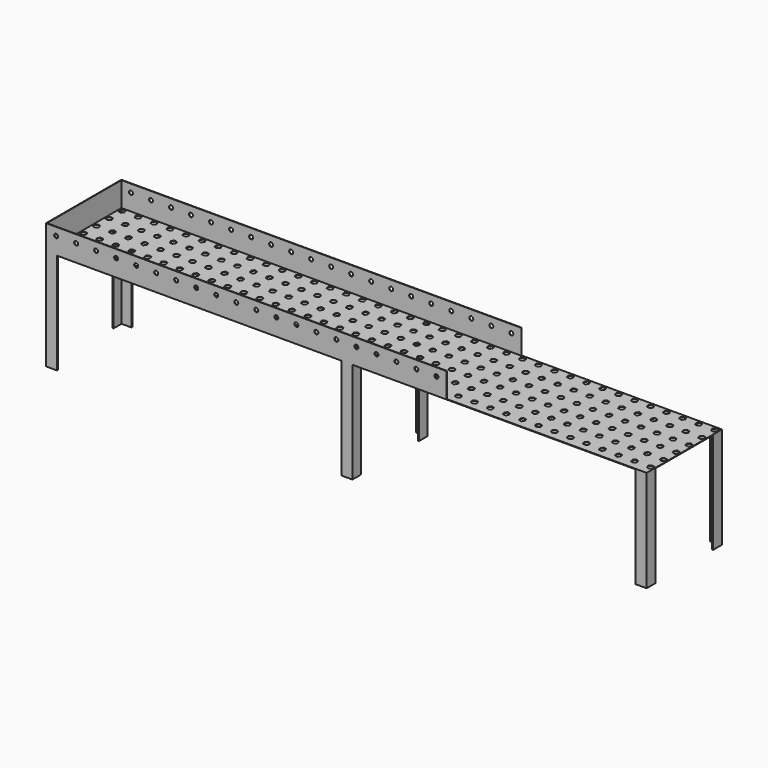
from build123d import *

# Parameters (mm, degrees)
F0_W      = 3000
F0_H      = 470
F1_DEPTH  = 125
F2_T      = -2.54
F3_R      = 10
F4_DEPTH  = 470
F6_DEPTH  = 505
F7_W      = 470
F7_H      = 122.46
F8_DEPTH  = 1000
F10_DEPTH = 2.54


with BuildPart() as f1:
    # F0 (on Top) → F1 (new body)
    with BuildSketch(Plane.XY):
        Rectangle(F0_W, F0_H)
    extrude(amount=F1_DEPTH)

    # F2
    f2_openings = [f1.faces().sort_by_distance(p)[0] for p in [
        (0, 0, 125),
    ]]
    offset(amount=F2_T, openings=f2_openings)

    # F3 (on face) → F4 (cut, through all)
    with BuildSketch(Plane.XZ.offset(235)):
        with Locations((-1450, 85)):
            Circle(F3_R)
        with Locations((-1350, 85)):
            Circle(F3_R)
        with Locations((-1250, 85)):
            Circle(F3_R)
        with Locations((-1150, 85)):
            Circle(F3_R)
        with Locations((-1050, 85)):
            Circle(F3_R)
        with Locations((-950, 85)):
            Circle(F3_R)
        with Locations((-850, 85)):
            Circle(F3_R)
        with Locations((-750, 85)):
            Circle(F3_R)
        with Locations((-650, 85)):
            Circle(F3_R)
        with Locations((-550, 85)):
            Circle(F3_R)
        with Locations((-450, 85)):
            Circle(F3_R)
        with Locations((-350, 85)):
            Circle(F3_R)
        with Locations((-250, 85)):
            Circle(F3_R)
        with Locations((-150, 85)):
            Circle(F3_R)
        with Locations((-50, 85)):
            Circle(F3_R)
        with Locations((50, 85)):
            Circle(F3_R)
        with Locations((150, 85)):
            Circle(F3_R)
        with Locations((250, 85)):
            Circle(F3_R)
        with Locations((350, 85)):
            Circle(F3_R)
        with Locations((450, 85)):
            Circle(F3_R)
    extrude(amount=-F4_DEPTH, mode=Mode.SUBTRACT)

    # F5 (on face) → F6 (join)
    with BuildSketch(Plane(origin=(0, 0, 0), x_dir=(1, 0, 0), z_dir=(0, 0, -1))):
        Polygon((-1445, 235), (-1500, 235), (-1500, 180), (-1495, 180), (-1495, 230), (-1445, 230), align=None)
        Polygon((-1500, -180), (-1500, -235), (-1445, -235), (-1445, -230), (-1495, -230), (-1495, -180), align=None)
        Polygon((30, 235), (-25, 235), (-25, 230), (25, 230), (25, 180), (30, 180), align=None)
        Polygon((-25, -230), (-25, -235), (30, -235), (30, -180), (25, -180), (25, -230), align=None)
        Polygon((1500, 235), (1445, 235), (1445, 230), (1495, 230), (1495, 180), (1500, 180), align=None)
        Polygon((1500, -235), (1500, -180), (1495, -180), (1495, -230), (1445, -230), (1445, -235), align=None)
    extrude(amount=F6_DEPTH)

    # F7 (on face) → F8 (cut)
    with BuildSketch(Plane.YZ.offset(1500)):
        with Locations((0, 63.77)):
            Rectangle(F7_W, F7_H)
    extrude(amount=-F8_DEPTH, mode=Mode.SUBTRACT)

    # F9 (on face) → F10 (cut, through all)
    with BuildSketch(Plane.XY.offset(2.54)):
        Polygon((-1474.205812, 199.246037), (-1464.427392, 210.174841), (-1469.002804, 224.107602), (-1483.356635, 227.11156), (-1493.135055, 216.182756), (-1488.559643, 202.249995), align=None)
        Polygon((-1488.559643, 122.249995), (-1474.205812, 119.246037), (-1464.427392, 130.174841), (-1469.002804, 144.107602), (-1483.356635, 147.11156), (-1493.135055, 136.182756), align=None)
        Polygon((-1488.559643, 42.249995), (-1474.205812, 39.246037), (-1464.427392, 50.174841), (-1469.002804, 64.107602), (-1483.356635, 67.11156), (-1493.135055, 56.182756), align=None)
        Polygon((-1488.559643, -37.750005), (-1474.205812, -40.753963), (-1464.427392, -29.825159), (-1469.002804, -15.892398), (-1483.356635, -12.88844), (-1493.135055, -23.817244), align=None)
        Polygon((-1488.559643, -117.750005), (-1474.205812, -120.753963), (-1464.427392, -109.825159), (-1469.002804, -95.892398), (-1483.356635, -92.88844), (-1493.135055, -103.817244), align=None)
        Polygon((-1488.559643, -197.750005), (-1474.205812, -200.753963), (-1464.427392, -189.825159), (-1469.002804, -175.892398), (-1483.356635, -172.88844), (-1493.135055, -183.817244), align=None)
        Polygon((-1408.559643, 202.249995), (-1394.205812, 199.246037), (-1384.427392, 210.174841), (-1389.002804, 224.107602), (-1403.356635, 227.11156), (-1413.135055, 216.182756), align=None)
        Polygon((-1408.559643, 122.249995), (-1394.205812, 119.246037), (-1384.427392, 130.174841), (-1389.002804, 144.107602), (-1403.356635, 147.11156), (-1413.135055, 136.182756), align=None)
        Polygon((-1408.559643, 42.249995), (-1394.205812, 39.246037), (-1384.427392, 50.174841), (-1389.002804, 64.107602), (-1403.356635, 67.11156), (-1413.135055, 56.182756), align=None)
        Polygon((-1408.559643, -37.750005), (-1394.205812, -40.753963), (-1384.427392, -29.825159), (-1389.002804, -15.892398), (-1403.356635, -12.88844), (-1413.135055, -23.817244), align=None)
        Polygon((-1408.559643, -117.750005), (-1394.205812, -120.753963), (-1384.427392, -109.825159), (-1389.002804, -95.892398), (-1403.356635, -92.88844), (-1413.135055, -103.817244), align=None)
        Polygon((-1408.559643, -197.750005), (-1394.205812, -200.753963), (-1384.427392, -189.825159), (-1389.002804, -175.892398), (-1403.356635, -172.88844), (-1413.135055, -183.817244), align=None)
        Polygon((-1328.559643, 202.249995), (-1314.205812, 199.246037), (-1304.427392, 210.174841), (-1309.002804, 224.107602), (-1323.356635, 227.11156), (-1333.135055, 216.182756), align=None)
        Polygon((-1328.559643, 122.249995), (-1314.205812, 119.246037), (-1304.427392, 130.174841), (-1309.002804, 144.107602), (-1323.356635, 147.11156), (-1333.135055, 136.182756), align=None)
        Polygon((-1328.559643, 42.249995), (-1314.205812, 39.246037), (-1304.427392, 50.174841), (-1309.002804, 64.107602), (-1323.356635, 67.11156), (-1333.135055, 56.182756), align=None)
        Polygon((-1328.559643, -37.750005), (-1314.205812, -40.753963), (-1304.427392, -29.825159), (-1309.002804, -15.892398), (-1323.356635, -12.88844), (-1333.135055, -23.817244), align=None)
        Polygon((-1328.559643, -117.750005), (-1314.205812, -120.753963), (-1304.427392, -109.825159), (-1309.002804, -95.892398), (-1323.356635, -92.88844), (-1333.135055, -103.817244), align=None)
        Polygon((-1328.559643, -197.750005), (-1314.205812, -200.753963), (-1304.427392, -189.825159), (-1309.002804, -175.892398), (-1323.356635, -172.88844), (-1333.135055, -183.817244), align=None)
        Polygon((-1248.559643, 202.249995), (-1234.205812, 199.246037), (-1224.427392, 210.174841), (-1229.002804, 224.107602), (-1243.356635, 227.11156), (-1253.135055, 216.182756), align=None)
        Polygon((-1248.559643, 122.249995), (-1234.205812, 119.246037), (-1224.427392, 130.174841), (-1229.002804, 144.107602), (-1243.356635, 147.11156), (-1253.135055, 136.182756), align=None)
        Polygon((-1248.559643, 42.249995), (-1234.205812, 39.246037), (-1224.427392, 50.174841), (-1229.002804, 64.107602), (-1243.356635, 67.11156), (-1253.135055, 56.182756), align=None)
        Polygon((-1248.559643, -37.750005), (-1234.205812, -40.753963), (-1224.427392, -29.825159), (-1229.002804, -15.892398), (-1243.356635, -12.88844), (-1253.135055, -23.817244), align=None)
        Polygon((-1248.559643, -117.750005), (-1234.205812, -120.753963), (-1224.427392, -109.825159), (-1229.002804, -95.892398), (-1243.356635, -92.88844), (-1253.135055, -103.817244), align=None)
        Polygon((-1248.559643, -197.750005), (-1234.205812, -200.753963), (-1224.427392, -189.825159), (-1229.002804, -175.892398), (-1243.356635, -172.88844), (-1253.135055, -183.817244), align=None)
        Polygon((-1168.559643, 202.249995), (-1154.205812, 199.246037), (-1144.427392, 210.174841), (-1149.002804, 224.107602), (-1163.356635, 227.11156), (-1173.135055, 216.182756), align=None)
        Polygon((-1168.559643, 122.249995), (-1154.205812, 119.246037), (-1144.427392, 130.174841), (-1149.002804, 144.107602), (-1163.356635, 147.11156), (-1173.135055, 136.182756), align=None)
        Polygon((-1168.559643, 42.249995), (-1154.205812, 39.246037), (-1144.427392, 50.174841), (-1149.002804, 64.107602), (-1163.356635, 67.11156), (-1173.135055, 56.182756), align=None)
        Polygon((-1168.559643, -37.750005), (-1154.205812, -40.753963), (-1144.427392, -29.825159), (-1149.002804, -15.892398), (-1163.356635, -12.88844), (-1173.135055, -23.817244), align=None)
        Polygon((-1168.559643, -117.750005), (-1154.205812, -120.753963), (-1144.427392, -109.825159), (-1149.002804, -95.892398), (-1163.356635, -92.88844), (-1173.135055, -103.817244), align=None)
        Polygon((-1168.559643, -197.750005), (-1154.205812, -200.753963), (-1144.427392, -189.825159), (-1149.002804, -175.892398), (-1163.356635, -172.88844), (-1173.135055, -183.817244), align=None)
        Polygon((-1088.559643, 202.249995), (-1074.205812, 199.246037), (-1064.427392, 210.174841), (-1069.002804, 224.107602), (-1083.356635, 227.11156), (-1093.135055, 216.182756), align=None)
        Polygon((-1088.559643, 122.249995), (-1074.205812, 119.246037), (-1064.427392, 130.174841), (-1069.002804, 144.107602), (-1083.356635, 147.11156), (-1093.135055, 136.182756), align=None)
        Polygon((-1088.559643, 42.249995), (-1074.205812, 39.246037), (-1064.427392, 50.174841), (-1069.002804, 64.107602), (-1083.356635, 67.11156), (-1093.135055, 56.182756), align=None)
        Polygon((-1088.559643, -37.750005), (-1074.205812, -40.753963), (-1064.427392, -29.825159), (-1069.002804, -15.892398), (-1083.356635, -12.88844), (-1093.135055, -23.817244), align=None)
        Polygon((-1088.559643, -117.750005), (-1074.205812, -120.753963), (-1064.427392, -109.825159), (-1069.002804, -95.892398), (-1083.356635, -92.88844), (-1093.135055, -103.817244), align=None)
        Polygon((-1088.559643, -197.750005), (-1074.205812, -200.753963), (-1064.427392, -189.825159), (-1069.002804, -175.892398), (-1083.356635, -172.88844), (-1093.135055, -183.817244), align=None)
        Polygon((-1008.559643, 202.249995), (-994.205812, 199.246037), (-984.427392, 210.174841), (-989.002804, 224.107602), (-1003.356635, 227.11156), (-1013.135055, 216.182756), align=None)
        Polygon((-1008.559643, 122.249995), (-994.205812, 119.246037), (-984.427392, 130.174841), (-989.002804, 144.107602), (-1003.356635, 147.11156), (-1013.135055, 136.182756), align=None)
        Polygon((-1008.559643, 42.249995), (-994.205812, 39.246037), (-984.427392, 50.174841), (-989.002804, 64.107602), (-1003.356635, 67.11156), (-1013.135055, 56.182756), align=None)
        Polygon((-1008.559643, -37.750005), (-994.205812, -40.753963), (-984.427392, -29.825159), (-989.002804, -15.892398), (-1003.356635, -12.88844), (-1013.135055, -23.817244), align=None)
        Polygon((-1008.559643, -117.750005), (-994.205812, -120.753963), (-984.427392, -109.825159), (-989.002804, -95.892398), (-1003.356635, -92.88844), (-1013.135055, -103.817244), align=None)
        Polygon((-1008.559643, -197.750005), (-994.205812, -200.753963), (-984.427392, -189.825159), (-989.002804, -175.892398), (-1003.356635, -172.88844), (-1013.135055, -183.817244), align=None)
        Polygon((-928.559643, 202.249995), (-914.205812, 199.246037), (-904.427392, 210.174841), (-909.002804, 224.107602), (-923.356635, 227.11156), (-933.135055, 216.182756), align=None)
        Polygon((-928.559643, 122.249995), (-914.205812, 119.246037), (-904.427392, 130.174841), (-909.002804, 144.107602), (-923.356635, 147.11156), (-933.135055, 136.182756), align=None)
        Polygon((-928.559643, 42.249995), (-914.205812, 39.246037), (-904.427392, 50.174841), (-909.002804, 64.107602), (-923.356635, 67.11156), (-933.135055, 56.182756), align=None)
        Polygon((-928.559643, -37.750005), (-914.205812, -40.753963), (-904.427392, -29.825159), (-909.002804, -15.892398), (-923.356635, -12.88844), (-933.135055, -23.817244), align=None)
        Polygon((-928.559643, -117.750005), (-914.205812, -120.753963), (-904.427392, -109.825159), (-909.002804, -95.892398), (-923.356635, -92.88844), (-933.135055, -103.817244), align=None)
        Polygon((-928.559643, -197.750005), (-914.205812, -200.753963), (-904.427392, -189.825159), (-909.002804, -175.892398), (-923.356635, -172.88844), (-933.135055, -183.817244), align=None)
        Polygon((-848.559643, 202.249995), (-834.205812, 199.246037), (-824.427392, 210.174841), (-829.002804, 224.107602), (-843.356635, 227.11156), (-853.135055, 216.182756), align=None)
        Polygon((-848.559643, 122.249995), (-834.205812, 119.246037), (-824.427392, 130.174841), (-829.002804, 144.107602), (-843.356635, 147.11156), (-853.135055, 136.182756), align=None)
        Polygon((-848.559643, 42.249995), (-834.205812, 39.246037), (-824.427392, 50.174841), (-829.002804, 64.107602), (-843.356635, 67.11156), (-853.135055, 56.182756), align=None)
        Polygon((-848.559643, -37.750005), (-834.205812, -40.753963), (-824.427392, -29.825159), (-829.002804, -15.892398), (-843.356635, -12.88844), (-853.135055, -23.817244), align=None)
        Polygon((-848.559643, -117.750005), (-834.205812, -120.753963), (-824.427392, -109.825159), (-829.002804, -95.892398), (-843.356635, -92.88844), (-853.135055, -103.817244), align=None)
        Polygon((-848.559643, -197.750005), (-834.205812, -200.753963), (-824.427392, -189.825159), (-829.002804, -175.892398), (-843.356635, -172.88844), (-853.135055, -183.817244), align=None)
        Polygon((-768.559643, 202.249995), (-754.205812, 199.246037), (-744.427392, 210.174841), (-749.002804, 224.107602), (-763.356635, 227.11156), (-773.135055, 216.182756), align=None)
        Polygon((-768.559643, 122.249995), (-754.205812, 119.246037), (-744.427392, 130.174841), (-749.002804, 144.107602), (-763.356635, 147.11156), (-773.135055, 136.182756), align=None)
        Polygon((-768.559643, 42.249995), (-754.205812, 39.246037), (-744.427392, 50.174841), (-749.002804, 64.107602), (-763.356635, 67.11156), (-773.135055, 56.182756), align=None)
        Polygon((-768.559643, -37.750005), (-754.205812, -40.753963), (-744.427392, -29.825159), (-749.002804, -15.892398), (-763.356635, -12.88844), (-773.135055, -23.817244), align=None)
        Polygon((-768.559643, -117.750005), (-754.205812, -120.753963), (-744.427392, -109.825159), (-749.002804, -95.892398), (-763.356635, -92.88844), (-773.135055, -103.817244), align=None)
        Polygon((-768.559643, -197.750005), (-754.205812, -200.753963), (-744.427392, -189.825159), (-749.002804, -175.892398), (-763.356635, -172.88844), (-773.135055, -183.817244), align=None)
        Polygon((-688.559643, 202.249995), (-674.205812, 199.246037), (-664.427392, 210.174841), (-669.002804, 224.107602), (-683.356635, 227.11156), (-693.135055, 216.182756), align=None)
        Polygon((-688.559643, 122.249995), (-674.205812, 119.246037), (-664.427392, 130.174841), (-669.002804, 144.107602), (-683.356635, 147.11156), (-693.135055, 136.182756), align=None)
        Polygon((-688.559643, 42.249995), (-674.205812, 39.246037), (-664.427392, 50.174841), (-669.002804, 64.107602), (-683.356635, 67.11156), (-693.135055, 56.182756), align=None)
        Polygon((-688.559643, -37.750005), (-674.205812, -40.753963), (-664.427392, -29.825159), (-669.002804, -15.892398), (-683.356635, -12.88844), (-693.135055, -23.817244), align=None)
        Polygon((-688.559643, -117.750005), (-674.205812, -120.753963), (-664.427392, -109.825159), (-669.002804, -95.892398), (-683.356635, -92.88844), (-693.135055, -103.817244), align=None)
        Polygon((-688.559643, -197.750005), (-674.205812, -200.753963), (-664.427392, -189.825159), (-669.002804, -175.892398), (-683.356635, -172.88844), (-693.135055, -183.817244), align=None)
        Polygon((-608.559643, 202.249995), (-594.205812, 199.246037), (-584.427392, 210.174841), (-589.002804, 224.107602), (-603.356635, 227.11156), (-613.135055, 216.182756), align=None)
        Polygon((-608.559643, 122.249995), (-594.205812, 119.246037), (-584.427392, 130.174841), (-589.002804, 144.107602), (-603.356635, 147.11156), (-613.135055, 136.182756), align=None)
        Polygon((-608.559643, 42.249995), (-594.205812, 39.246037), (-584.427392, 50.174841), (-589.002804, 64.107602), (-603.356635, 67.11156), (-613.135055, 56.182756), align=None)
        Polygon((-608.559643, -37.750005), (-594.205812, -40.753963), (-584.427392, -29.825159), (-589.002804, -15.892398), (-603.356635, -12.88844), (-613.135055, -23.817244), align=None)
        Polygon((-608.559643, -117.750005), (-594.205812, -120.753963), (-584.427392, -109.825159), (-589.002804, -95.892398), (-603.356635, -92.88844), (-613.135055, -103.817244), align=None)
        Polygon((-608.559643, -197.750005), (-594.205812, -200.753963), (-584.427392, -189.825159), (-589.002804, -175.892398), (-603.356635, -172.88844), (-613.135055, -183.817244), align=None)
        Polygon((-528.559643, 202.249995), (-514.205812, 199.246037), (-504.427392, 210.174841), (-509.002804, 224.107602), (-523.356635, 227.11156), (-533.135055, 216.182756), align=None)
        Polygon((-528.559643, 122.249995), (-514.205812, 119.246037), (-504.427392, 130.174841), (-509.002804, 144.107602), (-523.356635, 147.11156), (-533.135055, 136.182756), align=None)
        Polygon((-528.559643, 42.249995), (-514.205812, 39.246037), (-504.427392, 50.174841), (-509.002804, 64.107602), (-523.356635, 67.11156), (-533.135055, 56.182756), align=None)
        Polygon((-528.559643, -37.750005), (-514.205812, -40.753963), (-504.427392, -29.825159), (-509.002804, -15.892398), (-523.356635, -12.88844), (-533.135055, -23.817244), align=None)
        Polygon((-528.559643, -117.750005), (-514.205812, -120.753963), (-504.427392, -109.825159), (-509.002804, -95.892398), (-523.356635, -92.88844), (-533.135055, -103.817244), align=None)
        Polygon((-528.559643, -197.750005), (-514.205812, -200.753963), (-504.427392, -189.825159), (-509.002804, -175.892398), (-523.356635, -172.88844), (-533.135055, -183.817244), align=None)
        Polygon((-448.559643, 202.249995), (-434.205812, 199.246037), (-424.427392, 210.174841), (-429.002804, 224.107602), (-443.356635, 227.11156), (-453.135055, 216.182756), align=None)
        Polygon((-448.559643, 122.249995), (-434.205812, 119.246037), (-424.427392, 130.174841), (-429.002804, 144.107602), (-443.356635, 147.11156), (-453.135055, 136.182756), align=None)
        Polygon((-448.559643, 42.249995), (-434.205812, 39.246037), (-424.427392, 50.174841), (-429.002804, 64.107602), (-443.356635, 67.11156), (-453.135055, 56.182756), align=None)
        Polygon((-448.559643, -37.750005), (-434.205812, -40.753963), (-424.427392, -29.825159), (-429.002804, -15.892398), (-443.356635, -12.88844), (-453.135055, -23.817244), align=None)
        Polygon((-448.559643, -117.750005), (-434.205812, -120.753963), (-424.427392, -109.825159), (-429.002804, -95.892398), (-443.356635, -92.88844), (-453.135055, -103.817244), align=None)
        Polygon((-448.559643, -197.750005), (-434.205812, -200.753963), (-424.427392, -189.825159), (-429.002804, -175.892398), (-443.356635, -172.88844), (-453.135055, -183.817244), align=None)
        Polygon((-368.559643, 202.249995), (-354.205812, 199.246037), (-344.427392, 210.174841), (-349.002804, 224.107602), (-363.356635, 227.11156), (-373.135055, 216.182756), align=None)
        Polygon((-368.559643, 122.249995), (-354.205812, 119.246037), (-344.427392, 130.174841), (-349.002804, 144.107602), (-363.356635, 147.11156), (-373.135055, 136.182756), align=None)
        Polygon((-368.559643, 42.249995), (-354.205812, 39.246037), (-344.427392, 50.174841), (-349.002804, 64.107602), (-363.356635, 67.11156), (-373.135055, 56.182756), align=None)
        Polygon((-368.559643, -37.750005), (-354.205812, -40.753963), (-344.427392, -29.825159), (-349.002804, -15.892398), (-363.356635, -12.88844), (-373.135055, -23.817244), align=None)
        Polygon((-368.559643, -117.750005), (-354.205812, -120.753963), (-344.427392, -109.825159), (-349.002804, -95.892398), (-363.356635, -92.88844), (-373.135055, -103.817244), align=None)
        Polygon((-368.559643, -197.750005), (-354.205812, -200.753963), (-344.427392, -189.825159), (-349.002804, -175.892398), (-363.356635, -172.88844), (-373.135055, -183.817244), align=None)
        Polygon((-288.559643, 202.249995), (-274.205812, 199.246037), (-264.427392, 210.174841), (-269.002804, 224.107602), (-283.356635, 227.11156), (-293.135055, 216.182756), align=None)
        Polygon((-288.559643, 122.249995), (-274.205812, 119.246037), (-264.427392, 130.174841), (-269.002804, 144.107602), (-283.356635, 147.11156), (-293.135055, 136.182756), align=None)
        Polygon((-288.559643, 42.249995), (-274.205812, 39.246037), (-264.427392, 50.174841), (-269.002804, 64.107602), (-283.356635, 67.11156), (-293.135055, 56.182756), align=None)
        Polygon((-288.559643, -37.750005), (-274.205812, -40.753963), (-264.427392, -29.825159), (-269.002804, -15.892398), (-283.356635, -12.88844), (-293.135055, -23.817244), align=None)
        Polygon((-288.559643, -117.750005), (-274.205812, -120.753963), (-264.427392, -109.825159), (-269.002804, -95.892398), (-283.356635, -92.88844), (-293.135055, -103.817244), align=None)
        Polygon((-288.559643, -197.750005), (-274.205812, -200.753963), (-264.427392, -189.825159), (-269.002804, -175.892398), (-283.356635, -172.88844), (-293.135055, -183.817244), align=None)
        Polygon((-208.559643, 202.249995), (-194.205812, 199.246037), (-184.427392, 210.174841), (-189.002804, 224.107602), (-203.356635, 227.11156), (-213.135055, 216.182756), align=None)
        Polygon((-208.559643, 122.249995), (-194.205812, 119.246037), (-184.427392, 130.174841), (-189.002804, 144.107602), (-203.356635, 147.11156), (-213.135055, 136.182756), align=None)
        Polygon((-208.559643, 42.249995), (-194.205812, 39.246037), (-184.427392, 50.174841), (-189.002804, 64.107602), (-203.356635, 67.11156), (-213.135055, 56.182756), align=None)
        Polygon((-208.559643, -37.750005), (-194.205812, -40.753963), (-184.427392, -29.825159), (-189.002804, -15.892398), (-203.356635, -12.88844), (-213.135055, -23.817244), align=None)
        Polygon((-208.559643, -117.750005), (-194.205812, -120.753963), (-184.427392, -109.825159), (-189.002804, -95.892398), (-203.356635, -92.88844), (-213.135055, -103.817244), align=None)
        Polygon((-208.559643, -197.750005), (-194.205812, -200.753963), (-184.427392, -189.825159), (-189.002804, -175.892398), (-203.356635, -172.88844), (-213.135055, -183.817244), align=None)
        Polygon((-128.559643, 202.249995), (-114.205812, 199.246037), (-104.427392, 210.174841), (-109.002804, 224.107602), (-123.356635, 227.11156), (-133.135055, 216.182756), align=None)
        Polygon((-128.559643, 122.249995), (-114.205812, 119.246037), (-104.427392, 130.174841), (-109.002804, 144.107602), (-123.356635, 147.11156), (-133.135055, 136.182756), align=None)
        Polygon((-128.559643, 42.249995), (-114.205812, 39.246037), (-104.427392, 50.174841), (-109.002804, 64.107602), (-123.356635, 67.11156), (-133.135055, 56.182756), align=None)
        Polygon((-128.559643, -37.750005), (-114.205812, -40.753963), (-104.427392, -29.825159), (-109.002804, -15.892398), (-123.356635, -12.88844), (-133.135055, -23.817244), align=None)
        Polygon((-128.559643, -117.750005), (-114.205812, -120.753963), (-104.427392, -109.825159), (-109.002804, -95.892398), (-123.356635, -92.88844), (-133.135055, -103.817244), align=None)
        Polygon((-128.559643, -197.750005), (-114.205812, -200.753963), (-104.427392, -189.825159), (-109.002804, -175.892398), (-123.356635, -172.88844), (-133.135055, -183.817244), align=None)
        Polygon((-48.559643, 202.249995), (-34.205812, 199.246037), (-24.427392, 210.174841), (-29.002804, 224.107602), (-43.356635, 227.11156), (-53.135055, 216.182756), align=None)
        Polygon((-48.559643, 122.249995), (-34.205812, 119.246037), (-24.427392, 130.174841), (-29.002804, 144.107602), (-43.356635, 147.11156), (-53.135055, 136.182756), align=None)
        Polygon((-48.559643, 42.249995), (-34.205812, 39.246037), (-24.427392, 50.174841), (-29.002804, 64.107602), (-43.356635, 67.11156), (-53.135055, 56.182756), align=None)
        Polygon((-48.559643, -37.750005), (-34.205812, -40.753963), (-24.427392, -29.825159), (-29.002804, -15.892398), (-43.356635, -12.88844), (-53.135055, -23.817244), align=None)
        Polygon((-48.559643, -117.750005), (-34.205812, -120.753963), (-24.427392, -109.825159), (-29.002804, -95.892398), (-43.356635, -92.88844), (-53.135055, -103.817244), align=None)
        Polygon((-48.559643, -197.750005), (-34.205812, -200.753963), (-24.427392, -189.825159), (-29.002804, -175.892398), (-43.356635, -172.88844), (-53.135055, -183.817244), align=None)
        Polygon((31.440357, 202.249995), (45.794188, 199.246037), (55.572608, 210.174841), (50.997196, 224.107602), (36.643365, 227.11156), (26.864945, 216.182756), align=None)
        Polygon((31.440357, 122.249995), (45.794188, 119.246037), (55.572608, 130.174841), (50.997196, 144.107602), (36.643365, 147.11156), (26.864945, 136.182756), align=None)
        Polygon((31.440357, 42.249995), (45.794188, 39.246037), (55.572608, 50.174841), (50.997196, 64.107602), (36.643365, 67.11156), (26.864945, 56.182756), align=None)
        Polygon((31.440357, -37.750005), (45.794188, -40.753963), (55.572608, -29.825159), (50.997196, -15.892398), (36.643365, -12.88844), (26.864945, -23.817244), align=None)
        Polygon((31.440357, -117.750005), (45.794188, -120.753963), (55.572608, -109.825159), (50.997196, -95.892398), (36.643365, -92.88844), (26.864945, -103.817244), align=None)
        Polygon((31.440357, -197.750005), (45.794188, -200.753963), (55.572608, -189.825159), (50.997196, -175.892398), (36.643365, -172.88844), (26.864945, -183.817244), align=None)
        Polygon((111.440357, 202.249995), (125.794188, 199.246037), (135.572608, 210.174841), (130.997196, 224.107602), (116.643365, 227.11156), (106.864945, 216.182756), align=None)
        Polygon((111.440357, 122.249995), (125.794188, 119.246037), (135.572608, 130.174841), (130.997196, 144.107602), (116.643365, 147.11156), (106.864945, 136.182756), align=None)
        Polygon((111.440357, 42.249995), (125.794188, 39.246037), (135.572608, 50.174841), (130.997196, 64.107602), (116.643365, 67.11156), (106.864945, 56.182756), align=None)
        Polygon((111.440357, -37.750005), (125.794188, -40.753963), (135.572608, -29.825159), (130.997196, -15.892398), (116.643365, -12.88844), (106.864945, -23.817244), align=None)
        Polygon((111.440357, -117.750005), (125.794188, -120.753963), (135.572608, -109.825159), (130.997196, -95.892398), (116.643365, -92.88844), (106.864945, -103.817244), align=None)
        Polygon((111.440357, -197.750005), (125.794188, -200.753963), (135.572608, -189.825159), (130.997196, -175.892398), (116.643365, -172.88844), (106.864945, -183.817244), align=None)
        Polygon((191.440357, 202.249995), (205.794188, 199.246037), (215.572608, 210.174841), (210.997196, 224.107602), (196.643365, 227.11156), (186.864945, 216.182756), align=None)
        Polygon((191.440357, 122.249995), (205.794188, 119.246037), (215.572608, 130.174841), (210.997196, 144.107602), (196.643365, 147.11156), (186.864945, 136.182756), align=None)
        Polygon((191.440357, 42.249995), (205.794188, 39.246037), (215.572608, 50.174841), (210.997196, 64.107602), (196.643365, 67.11156), (186.864945, 56.182756), align=None)
        Polygon((191.440357, -37.750005), (205.794188, -40.753963), (215.572608, -29.825159), (210.997196, -15.892398), (196.643365, -12.88844), (186.864945, -23.817244), align=None)
        Polygon((191.440357, -117.750005), (205.794188, -120.753963), (215.572608, -109.825159), (210.997196, -95.892398), (196.643365, -92.88844), (186.864945, -103.817244), align=None)
        Polygon((191.440357, -197.750005), (205.794188, -200.753963), (215.572608, -189.825159), (210.997196, -175.892398), (196.643365, -172.88844), (186.864945, -183.817244), align=None)
        Polygon((271.440357, 202.249995), (285.794188, 199.246037), (295.572608, 210.174841), (290.997196, 224.107602), (276.643365, 227.11156), (266.864945, 216.182756), align=None)
        Polygon((271.440357, 122.249995), (285.794188, 119.246037), (295.572608, 130.174841), (290.997196, 144.107602), (276.643365, 147.11156), (266.864945, 136.182756), align=None)
        Polygon((271.440357, 42.249995), (285.794188, 39.246037), (295.572608, 50.174841), (290.997196, 64.107602), (276.643365, 67.11156), (266.864945, 56.182756), align=None)
        Polygon((271.440357, -37.750005), (285.794188, -40.753963), (295.572608, -29.825159), (290.997196, -15.892398), (276.643365, -12.88844), (266.864945, -23.817244), align=None)
        Polygon((271.440357, -117.750005), (285.794188, -120.753963), (295.572608, -109.825159), (290.997196, -95.892398), (276.643365, -92.88844), (266.864945, -103.817244), align=None)
        Polygon((271.440357, -197.750005), (285.794188, -200.753963), (295.572608, -189.825159), (290.997196, -175.892398), (276.643365, -172.88844), (266.864945, -183.817244), align=None)
        Polygon((351.440357, 202.249995), (365.794188, 199.246037), (375.572608, 210.174841), (370.997196, 224.107602), (356.643365, 227.11156), (346.864945, 216.182756), align=None)
        Polygon((351.440357, 122.249995), (365.794188, 119.246037), (375.572608, 130.174841), (370.997196, 144.107602), (356.643365, 147.11156), (346.864945, 136.182756), align=None)
        Polygon((351.440357, 42.249995), (365.794188, 39.246037), (375.572608, 50.174841), (370.997196, 64.107602), (356.643365, 67.11156), (346.864945, 56.182756), align=None)
        Polygon((351.440357, -37.750005), (365.794188, -40.753963), (375.572608, -29.825159), (370.997196, -15.892398), (356.643365, -12.88844), (346.864945, -23.817244), align=None)
        Polygon((351.440357, -117.750005), (365.794188, -120.753963), (375.572608, -109.825159), (370.997196, -95.892398), (356.643365, -92.88844), (346.864945, -103.817244), align=None)
        Polygon((351.440357, -197.750005), (365.794188, -200.753963), (375.572608, -189.825159), (370.997196, -175.892398), (356.643365, -172.88844), (346.864945, -183.817244), align=None)
        Polygon((431.440357, 202.249995), (445.794188, 199.246037), (455.572608, 210.174841), (450.997196, 224.107602), (436.643365, 227.11156), (426.864945, 216.182756), align=None)
        Polygon((431.440357, 122.249995), (445.794188, 119.246037), (455.572608, 130.174841), (450.997196, 144.107602), (436.643365, 147.11156), (426.864945, 136.182756), align=None)
        Polygon((431.440357, 42.249995), (445.794188, 39.246037), (455.572608, 50.174841), (450.997196, 64.107602), (436.643365, 67.11156), (426.864945, 56.182756), align=None)
        Polygon((431.440357, -37.750005), (445.794188, -40.753963), (455.572608, -29.825159), (450.997196, -15.892398), (436.643365, -12.88844), (426.864945, -23.817244), align=None)
        Polygon((431.440357, -117.750005), (445.794188, -120.753963), (455.572608, -109.825159), (450.997196, -95.892398), (436.643365, -92.88844), (426.864945, -103.817244), align=None)
        Polygon((431.440357, -197.750005), (445.794188, -200.753963), (455.572608, -189.825159), (450.997196, -175.892398), (436.643365, -172.88844), (426.864945, -183.817244), align=None)
        Polygon((511.440357, 202.249995), (525.794188, 199.246037), (535.572608, 210.174841), (530.997196, 224.107602), (516.643365, 227.11156), (506.864945, 216.182756), align=None)
        Polygon((511.440357, 122.249995), (525.794188, 119.246037), (535.572608, 130.174841), (530.997196, 144.107602), (516.643365, 147.11156), (506.864945, 136.182756), align=None)
        Polygon((511.440357, 42.249995), (525.794188, 39.246037), (535.572608, 50.174841), (530.997196, 64.107602), (516.643365, 67.11156), (506.864945, 56.182756), align=None)
        Polygon((511.440357, -37.750005), (525.794188, -40.753963), (535.572608, -29.825159), (530.997196, -15.892398), (516.643365, -12.88844), (506.864945, -23.817244), align=None)
        Polygon((511.440357, -117.750005), (525.794188, -120.753963), (535.572608, -109.825159), (530.997196, -95.892398), (516.643365, -92.88844), (506.864945, -103.817244), align=None)
        Polygon((511.440357, -197.750005), (525.794188, -200.753963), (535.572608, -189.825159), (530.997196, -175.892398), (516.643365, -172.88844), (506.864945, -183.817244), align=None)
        Polygon((591.440357, 202.249995), (605.794188, 199.246037), (615.572608, 210.174841), (610.997196, 224.107602), (596.643365, 227.11156), (586.864945, 216.182756), align=None)
        Polygon((591.440357, 122.249995), (605.794188, 119.246037), (615.572608, 130.174841), (610.997196, 144.107602), (596.643365, 147.11156), (586.864945, 136.182756), align=None)
        Polygon((591.440357, 42.249995), (605.794188, 39.246037), (615.572608, 50.174841), (610.997196, 64.107602), (596.643365, 67.11156), (586.864945, 56.182756), align=None)
        Polygon((591.440357, -37.750005), (605.794188, -40.753963), (615.572608, -29.825159), (610.997196, -15.892398), (596.643365, -12.88844), (586.864945, -23.817244), align=None)
        Polygon((591.440357, -117.750005), (605.794188, -120.753963), (615.572608, -109.825159), (610.997196, -95.892398), (596.643365, -92.88844), (586.864945, -103.817244), align=None)
        Polygon((591.440357, -197.750005), (605.794188, -200.753963), (615.572608, -189.825159), (610.997196, -175.892398), (596.643365, -172.88844), (586.864945, -183.817244), align=None)
        Polygon((671.440357, 202.249995), (685.794188, 199.246037), (695.572608, 210.174841), (690.997196, 224.107602), (676.643365, 227.11156), (666.864945, 216.182756), align=None)
        Polygon((671.440357, 122.249995), (685.794188, 119.246037), (695.572608, 130.174841), (690.997196, 144.107602), (676.643365, 147.11156), (666.864945, 136.182756), align=None)
        Polygon((671.440357, 42.249995), (685.794188, 39.246037), (695.572608, 50.174841), (690.997196, 64.107602), (676.643365, 67.11156), (666.864945, 56.182756), align=None)
        Polygon((671.440357, -37.750005), (685.794188, -40.753963), (695.572608, -29.825159), (690.997196, -15.892398), (676.643365, -12.88844), (666.864945, -23.817244), align=None)
        Polygon((671.440357, -117.750005), (685.794188, -120.753963), (695.572608, -109.825159), (690.997196, -95.892398), (676.643365, -92.88844), (666.864945, -103.817244), align=None)
        Polygon((671.440357, -197.750005), (685.794188, -200.753963), (695.572608, -189.825159), (690.997196, -175.892398), (676.643365, -172.88844), (666.864945, -183.817244), align=None)
        Polygon((751.440357, 202.249995), (765.794188, 199.246037), (775.572608, 210.174841), (770.997196, 224.107602), (756.643365, 227.11156), (746.864945, 216.182756), align=None)
        Polygon((751.440357, 122.249995), (765.794188, 119.246037), (775.572608, 130.174841), (770.997196, 144.107602), (756.643365, 147.11156), (746.864945, 136.182756), align=None)
        Polygon((751.440357, 42.249995), (765.794188, 39.246037), (775.572608, 50.174841), (770.997196, 64.107602), (756.643365, 67.11156), (746.864945, 56.182756), align=None)
        Polygon((751.440357, -37.750005), (765.794188, -40.753963), (775.572608, -29.825159), (770.997196, -15.892398), (756.643365, -12.88844), (746.864945, -23.817244), align=None)
        Polygon((751.440357, -117.750005), (765.794188, -120.753963), (775.572608, -109.825159), (770.997196, -95.892398), (756.643365, -92.88844), (746.864945, -103.817244), align=None)
        Polygon((751.440357, -197.750005), (765.794188, -200.753963), (775.572608, -189.825159), (770.997196, -175.892398), (756.643365, -172.88844), (746.864945, -183.817244), align=None)
        Polygon((831.440357, 202.249995), (845.794188, 199.246037), (855.572608, 210.174841), (850.997196, 224.107602), (836.643365, 227.11156), (826.864945, 216.182756), align=None)
        Polygon((831.440357, 122.249995), (845.794188, 119.246037), (855.572608, 130.174841), (850.997196, 144.107602), (836.643365, 147.11156), (826.864945, 136.182756), align=None)
        Polygon((831.440357, 42.249995), (845.794188, 39.246037), (855.572608, 50.174841), (850.997196, 64.107602), (836.643365, 67.11156), (826.864945, 56.182756), align=None)
        Polygon((831.440357, -37.750005), (845.794188, -40.753963), (855.572608, -29.825159), (850.997196, -15.892398), (836.643365, -12.88844), (826.864945, -23.817244), align=None)
        Polygon((831.440357, -117.750005), (845.794188, -120.753963), (855.572608, -109.825159), (850.997196, -95.892398), (836.643365, -92.88844), (826.864945, -103.817244), align=None)
        Polygon((831.440357, -197.750005), (845.794188, -200.753963), (855.572608, -189.825159), (850.997196, -175.892398), (836.643365, -172.88844), (826.864945, -183.817244), align=None)
        Polygon((911.440357, 202.249995), (925.794188, 199.246037), (935.572608, 210.174841), (930.997196, 224.107602), (916.643365, 227.11156), (906.864945, 216.182756), align=None)
        Polygon((911.440357, 122.249995), (925.794188, 119.246037), (935.572608, 130.174841), (930.997196, 144.107602), (916.643365, 147.11156), (906.864945, 136.182756), align=None)
        Polygon((911.440357, 42.249995), (925.794188, 39.246037), (935.572608, 50.174841), (930.997196, 64.107602), (916.643365, 67.11156), (906.864945, 56.182756), align=None)
        Polygon((911.440357, -37.750005), (925.794188, -40.753963), (935.572608, -29.825159), (930.997196, -15.892398), (916.643365, -12.88844), (906.864945, -23.817244), align=None)
        Polygon((911.440357, -117.750005), (925.794188, -120.753963), (935.572608, -109.825159), (930.997196, -95.892398), (916.643365, -92.88844), (906.864945, -103.817244), align=None)
        Polygon((911.440357, -197.750005), (925.794188, -200.753963), (935.572608, -189.825159), (930.997196, -175.892398), (916.643365, -172.88844), (906.864945, -183.817244), align=None)
        Polygon((991.440357, 202.249995), (1005.794188, 199.246037), (1015.572608, 210.174841), (1010.997196, 224.107602), (996.643365, 227.11156), (986.864945, 216.182756), align=None)
        Polygon((991.440357, 122.249995), (1005.794188, 119.246037), (1015.572608, 130.174841), (1010.997196, 144.107602), (996.643365, 147.11156), (986.864945, 136.182756), align=None)
        Polygon((991.440357, 42.249995), (1005.794188, 39.246037), (1015.572608, 50.174841), (1010.997196, 64.107602), (996.643365, 67.11156), (986.864945, 56.182756), align=None)
        Polygon((991.440357, -37.750005), (1005.794188, -40.753963), (1015.572608, -29.825159), (1010.997196, -15.892398), (996.643365, -12.88844), (986.864945, -23.817244), align=None)
        Polygon((991.440357, -117.750005), (1005.794188, -120.753963), (1015.572608, -109.825159), (1010.997196, -95.892398), (996.643365, -92.88844), (986.864945, -103.817244), align=None)
        Polygon((991.440357, -197.750005), (1005.794188, -200.753963), (1015.572608, -189.825159), (1010.997196, -175.892398), (996.643365, -172.88844), (986.864945, -183.817244), align=None)
        Polygon((1071.440357, 202.249995), (1085.794188, 199.246037), (1095.572608, 210.174841), (1090.997196, 224.107602), (1076.643365, 227.11156), (1066.864945, 216.182756), align=None)
        Polygon((1071.440357, 122.249995), (1085.794188, 119.246037), (1095.572608, 130.174841), (1090.997196, 144.107602), (1076.643365, 147.11156), (1066.864945, 136.182756), align=None)
        Polygon((1071.440357, 42.249995), (1085.794188, 39.246037), (1095.572608, 50.174841), (1090.997196, 64.107602), (1076.643365, 67.11156), (1066.864945, 56.182756), align=None)
        Polygon((1071.440357, -37.750005), (1085.794188, -40.753963), (1095.572608, -29.825159), (1090.997196, -15.892398), (1076.643365, -12.88844), (1066.864945, -23.817244), align=None)
        Polygon((1071.440357, -117.750005), (1085.794188, -120.753963), (1095.572608, -109.825159), (1090.997196, -95.892398), (1076.643365, -92.88844), (1066.864945, -103.817244), align=None)
        Polygon((1071.440357, -197.750005), (1085.794188, -200.753963), (1095.572608, -189.825159), (1090.997196, -175.892398), (1076.643365, -172.88844), (1066.864945, -183.817244), align=None)
        Polygon((1151.440357, 202.249995), (1165.794188, 199.246037), (1175.572608, 210.174841), (1170.997196, 224.107602), (1156.643365, 227.11156), (1146.864945, 216.182756), align=None)
        Polygon((1151.440357, 122.249995), (1165.794188, 119.246037), (1175.572608, 130.174841), (1170.997196, 144.107602), (1156.643365, 147.11156), (1146.864945, 136.182756), align=None)
        Polygon((1151.440357, 42.249995), (1165.794188, 39.246037), (1175.572608, 50.174841), (1170.997196, 64.107602), (1156.643365, 67.11156), (1146.864945, 56.182756), align=None)
        Polygon((1151.440357, -37.750005), (1165.794188, -40.753963), (1175.572608, -29.825159), (1170.997196, -15.892398), (1156.643365, -12.88844), (1146.864945, -23.817244), align=None)
        Polygon((1151.440357, -117.750005), (1165.794188, -120.753963), (1175.572608, -109.825159), (1170.997196, -95.892398), (1156.643365, -92.88844), (1146.864945, -103.817244), align=None)
        Polygon((1151.440357, -197.750005), (1165.794188, -200.753963), (1175.572608, -189.825159), (1170.997196, -175.892398), (1156.643365, -172.88844), (1146.864945, -183.817244), align=None)
        Polygon((1231.440357, 202.249995), (1245.794188, 199.246037), (1255.572608, 210.174841), (1250.997196, 224.107602), (1236.643365, 227.11156), (1226.864945, 216.182756), align=None)
        Polygon((1231.440357, 122.249995), (1245.794188, 119.246037), (1255.572608, 130.174841), (1250.997196, 144.107602), (1236.643365, 147.11156), (1226.864945, 136.182756), align=None)
        Polygon((1231.440357, 42.249995), (1245.794188, 39.246037), (1255.572608, 50.174841), (1250.997196, 64.107602), (1236.643365, 67.11156), (1226.864945, 56.182756), align=None)
        Polygon((1231.440357, -37.750005), (1245.794188, -40.753963), (1255.572608, -29.825159), (1250.997196, -15.892398), (1236.643365, -12.88844), (1226.864945, -23.817244), align=None)
        Polygon((1231.440357, -117.750005), (1245.794188, -120.753963), (1255.572608, -109.825159), (1250.997196, -95.892398), (1236.643365, -92.88844), (1226.864945, -103.817244), align=None)
        Polygon((1231.440357, -197.750005), (1245.794188, -200.753963), (1255.572608, -189.825159), (1250.997196, -175.892398), (1236.643365, -172.88844), (1226.864945, -183.817244), align=None)
        Polygon((1311.440357, 202.249995), (1325.794188, 199.246037), (1335.572608, 210.174841), (1330.997196, 224.107602), (1316.643365, 227.11156), (1306.864945, 216.182756), align=None)
        Polygon((1311.440357, 122.249995), (1325.794188, 119.246037), (1335.572608, 130.174841), (1330.997196, 144.107602), (1316.643365, 147.11156), (1306.864945, 136.182756), align=None)
        Polygon((1311.440357, 42.249995), (1325.794188, 39.246037), (1335.572608, 50.174841), (1330.997196, 64.107602), (1316.643365, 67.11156), (1306.864945, 56.182756), align=None)
        Polygon((1311.440357, -37.750005), (1325.794188, -40.753963), (1335.572608, -29.825159), (1330.997196, -15.892398), (1316.643365, -12.88844), (1306.864945, -23.817244), align=None)
        Polygon((1311.440357, -117.750005), (1325.794188, -120.753963), (1335.572608, -109.825159), (1330.997196, -95.892398), (1316.643365, -92.88844), (1306.864945, -103.817244), align=None)
        Polygon((1311.440357, -197.750005), (1325.794188, -200.753963), (1335.572608, -189.825159), (1330.997196, -175.892398), (1316.643365, -172.88844), (1306.864945, -183.817244), align=None)
        Polygon((1391.440357, 202.249995), (1405.794188, 199.246037), (1415.572608, 210.174841), (1410.997196, 224.107602), (1396.643365, 227.11156), (1386.864945, 216.182756), align=None)
        Polygon((1391.440357, 122.249995), (1405.794188, 119.246037), (1415.572608, 130.174841), (1410.997196, 144.107602), (1396.643365, 147.11156), (1386.864945, 136.182756), align=None)
        Polygon((1391.440357, 42.249995), (1405.794188, 39.246037), (1415.572608, 50.174841), (1410.997196, 64.107602), (1396.643365, 67.11156), (1386.864945, 56.182756), align=None)
        Polygon((1391.440357, -37.750005), (1405.794188, -40.753963), (1415.572608, -29.825159), (1410.997196, -15.892398), (1396.643365, -12.88844), (1386.864945, -23.817244), align=None)
        Polygon((1391.440357, -117.750005), (1405.794188, -120.753963), (1415.572608, -109.825159), (1410.997196, -95.892398), (1396.643365, -92.88844), (1386.864945, -103.817244), align=None)
        Polygon((1391.440357, -197.750005), (1405.794188, -200.753963), (1415.572608, -189.825159), (1410.997196, -175.892398), (1396.643365, -172.88844), (1386.864945, -183.817244), align=None)
        Polygon((1471.440357, 202.249995), (1485.794188, 199.246037), (1495.572608, 210.174841), (1490.997196, 224.107602), (1476.643365, 227.11156), (1466.864945, 216.182756), align=None)
        Polygon((1471.440357, 122.249995), (1485.794188, 119.246037), (1495.572608, 130.174841), (1490.997196, 144.107602), (1476.643365, 147.11156), (1466.864945, 136.182756), align=None)
        Polygon((1471.440357, 42.249995), (1485.794188, 39.246037), (1495.572608, 50.174841), (1490.997196, 64.107602), (1476.643365, 67.11156), (1466.864945, 56.182756), align=None)
        Polygon((1471.440357, -37.750005), (1485.794188, -40.753963), (1495.572608, -29.825159), (1490.997196, -15.892398), (1476.643365, -12.88844), (1466.864945, -23.817244), align=None)
        Polygon((1471.440357, -117.750005), (1485.794188, -120.753963), (1495.572608, -109.825159), (1490.997196, -95.892398), (1476.643365, -92.88844), (1466.864945, -103.817244), align=None)
        Polygon((1471.440357, -197.750005), (1485.794188, -200.753963), (1495.572608, -189.825159), (1490.997196, -175.892398), (1476.643365, -172.88844), (1466.864945, -183.817244), align=None)
    extrude(amount=-F10_DEPTH, mode=Mode.SUBTRACT)


solid = f1.part
